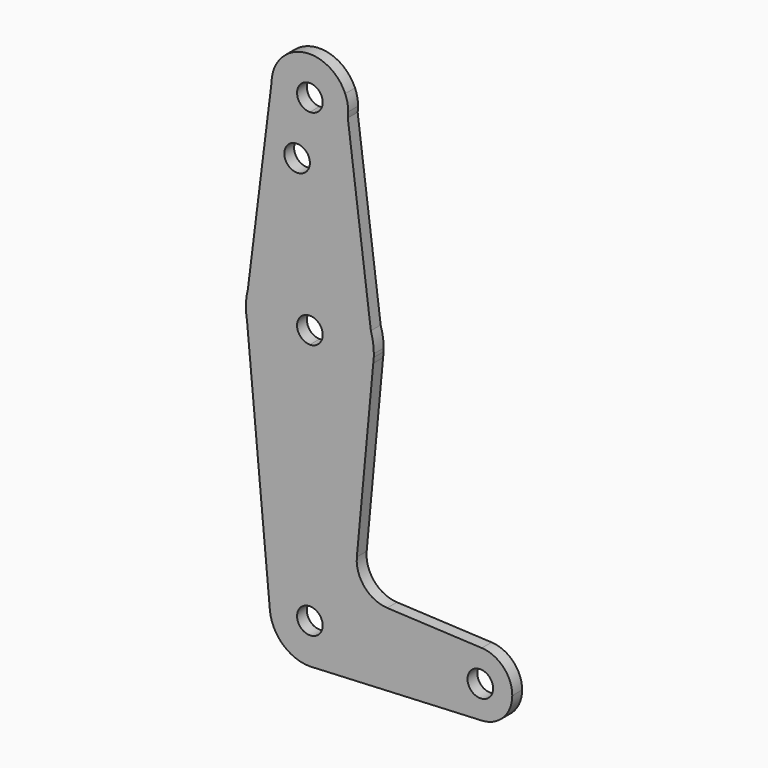
from build123d import *

# Parameters (mm, degrees)
F0_R     = 3.175
F1_DEPTH = 3.048


with BuildPart() as f1:
    # F0 (on Front) → F1 (new body)
    with BuildSketch(Plane.XZ):
        with BuildLine():
            ThreePointArc((-9.5248062727, 114.3607492196), (-6.756636046, 107.5863203575), (0, 104.775))
            ThreePointArc((0, 104.775), (6.2224950143, 107.0884689006), (9.4223026375, 112.9050670241))
            Line((9.4223026375, 112.9050670241), (8.7665542273, 118.0246680361))
            ThreePointArc((8.7665542273, 118.0246680361), (-1.870778398, 123.6394760659), (-9.5248062727, 114.3607492196))
        make_face()
        with BuildLine():
            ThreePointArc((3.175, 114.3), (2.2450640303, 112.0549359697), (0, 111.125))
            ThreePointArc((0, 111.125), (-2.2450640303, 116.5450640303), (3.175, 114.3))
        make_face(mode=Mode.SUBTRACT)
        with BuildLine():
            ThreePointArc((9.4223026375, 112.9050670241), (6.2224950143, 107.0884689006), (0, 104.775))
            Line((0, 104.775), (0, 100.0252))
            Line((0, 100.0252), (0, 79.375))
            ThreePointArc((0, 79.375), (9.3840896531, 76.3044713433), (15.1380544311, 68.2806833238))
            Line((15.1380544311, 68.2806833238), (9.4223026375, 112.9050670241))
        make_face()
        with BuildLine():
            Line((0, 100.0252), (0, 104.775))
            ThreePointArc((0, 104.775), (-6.756636046, 107.5863203575), (-9.5248062727, 114.3607492196))
            Line((-9.5248062727, 114.3607492196), (-15.3876574465, 67.4032836571))
            ThreePointArc((-15.3876574465, 67.4032836571), (-9.7481023011, 76.0295700855), (0, 79.375))
            Line((0, 79.375), (0, 100.0252))
        make_face()
        with Locations((-3.175, 100.0252)):
            Circle(F0_R, mode=Mode.SUBTRACT)
        with BuildLine():
            Line((8.7665542273, 118.0246680361), (9.4223026375, 112.9050670241))
            ThreePointArc((9.4223026375, 112.9050670241), (9.4992909636, 113.6006458774), (9.525, 114.3))
            ThreePointArc((9.525, 114.3), (9.3334627555, 116.200552023), (8.7665542273, 118.0246680361))
        make_face()
        with BuildLine():
            ThreePointArc((15.1380544311, 68.2806833238), (9.3840896531, 76.3044713433), (0, 79.375))
            Line((0, 79.375), (0, 66.675))
            ThreePointArc((0, 66.675), (2.2450640303, 65.7450640303), (3.175, 63.5))
            ThreePointArc((3.175, 63.5), (2.2450640303, 61.2549359697), (0, 60.325))
            Line((0, 60.325), (0, 47.625))
            ThreePointArc((0, 47.625), (10.4426093696, 51.5430967825), (15.7305536467, 61.3633421035))
            Line((15.7305536467, 61.3633421035), (15.8542705753, 62.6889947435))
            Line((15.8542705753, 62.6889947435), (15.1380544311, 68.2806833238))
        make_face()
        with BuildLine():
            Line((0, 66.675), (0, 79.375))
            ThreePointArc((0, 79.375), (-9.7481023011, 76.0295700855), (-15.3876574465, 67.4032836571))
            Line((-15.3876574465, 67.4032836571), (-15.875, 63.5))
            Line((-15.875, 63.5), (-15.6058042604, 60.5889008284))
            ThreePointArc((-15.6058042604, 60.5889008284), (-10.1440111803, 51.2887485418), (0, 47.625))
            Line((0, 47.625), (0, 60.325))
            ThreePointArc((0, 60.325), (-3.175, 63.5), (0, 66.675))
        make_face()
        with BuildLine():
            Line((-15.875, 63.5), (-15.3876574465, 67.4032836571))
            ThreePointArc((-15.3876574465, 67.4032836571), (-15.7526932136, 65.466794732), (-15.875, 63.5))
        make_face()
        with BuildLine():
            ThreePointArc((15.875, 63.5), (15.6896819454, 65.9185750874), (15.1380544311, 68.2806833238))
            Line((15.1380544311, 68.2806833238), (15.8542705753, 62.6889947435))
            ThreePointArc((15.8542705753, 62.6889947435), (15.8698167977, 63.0943649315), (15.875, 63.5))
        make_face()
        with BuildLine():
            Line((-15.6058042604, 60.5889008284), (-15.875, 63.5))
            ThreePointArc((-15.875, 63.5), (-15.8075578068, 62.0382403811), (-15.6058042604, 60.5889008284))
        make_face()
        with BuildLine():
            ThreePointArc((15.7305536467, 61.3633421035), (15.8063157951, 62.024870858), (15.8542705753, 62.6889947435))
            Line((15.8542705753, 62.6889947435), (15.7305536467, 61.3633421035))
        make_face()
        with BuildLine():
            ThreePointArc((0, 47.625), (-10.1440111803, 51.2887485418), (-15.6058042604, 60.5889008284))
            Line((-15.6058042604, 60.5889008284), (-9.9182037869, -0.9171581066))
            ThreePointArc((-9.9182037869, -0.9171581066), (-7.3602756878, 6.7110570814), (0, 9.9605193314))
            Line((0, 9.9605193314), (0, 47.625))
        make_face()
        with BuildLine():
            Line((11.6581237712, 17.7264083363), (15.7305536467, 61.3633421035))
            ThreePointArc((15.7305536467, 61.3633421035), (10.4426093696, 51.5430967825), (0, 47.625))
            Line((0, 47.625), (0, 9.9605193314))
            ThreePointArc((0, 9.9605193314), (7.0431507634, 7.0431507634), (9.9605193314, 0))
            Line((9.9605193314, 0), (34.3583017448, 0))
            ThreePointArc((34.3583017448, 0), (36.818247295, 5.7445890627), (42.6733388469, 7.9285163799))
            Line((42.6733388469, 7.9285163799), (19.1957855599, 9.0464616559))
            ThreePointArc((19.1957855599, 9.0464616559), (13.5711985228, 11.7748971974), (11.6581237712, 17.7264083363))
        make_face()
        with BuildLine():
            ThreePointArc((0, 9.9605193314), (-7.3602756878, 6.7110570814), (-9.9182037869, -0.9171581066))
            ThreePointArc((-9.9182037869, -0.9171581066), (-6.7110570814, -7.3602756878), (0, -9.9605193314))
            Line((0, -9.9605193314), (0.9464464954, -9.9154517992))
            ThreePointArc((0.9464464954, -9.9154517992), (7.37017788, -6.7001808459), (9.9605193314, 0))
            Line((9.9605193314, 0), (3.175, 0))
            ThreePointArc((3.175, 0), (-2.2450640303, -2.2450640303), (0, 3.175))
            Line((0, 3.175), (0, 9.9605193314))
        make_face()
        with BuildLine():
            Line((0.9464464954, -9.9154517992), (0, -9.9605193314))
            ThreePointArc((0, -9.9605193314), (0.4737594461, -9.9492460688), (0.9464464954, -9.9154517992))
        make_face()
        with BuildLine():
            Line((34.3583017448, 0), (9.9605193314, 0))
            ThreePointArc((9.9605193314, 0), (7.37017788, -6.7001808459), (0.9464464954, -9.9154517992))
            Line((0.9464464954, -9.9154517992), (42.6733388469, -7.9285163799))
            ThreePointArc((42.6733388469, -7.9285163799), (36.818247295, -5.7445890627), (34.3583017448, 0))
        make_face()
        with BuildLine():
            ThreePointArc((50.2333017448, 0), (48.0403908075, 5.4775544499), (42.6733388469, 7.9285163799))
            ThreePointArc((42.6733388469, 7.9285163799), (36.818247295, 5.7445890627), (34.3583017448, 0))
            ThreePointArc((34.3583017448, 0), (36.818247295, -5.7445890627), (42.6733388469, -7.9285163799))
            ThreePointArc((42.6733388469, -7.9285163799), (48.0403908075, -5.4775544499), (50.2333017448, 0))
        make_face()
        with BuildLine():
            ThreePointArc((45.4708017448, 0), (42.2958017448, -3.175), (39.1208017448, 0))
            ThreePointArc((39.1208017448, 0), (42.2958017448, 3.175), (45.4708017448, 0))
        make_face(mode=Mode.SUBTRACT)
        with BuildLine():
            ThreePointArc((9.9605193314, 0), (7.0431507634, 7.0431507634), (0, 9.9605193314))
            Line((0, 9.9605193314), (0, 3.175))
            ThreePointArc((0, 3.175), (2.2450640303, 2.2450640303), (3.175, 0))
            Line((3.175, 0), (9.9605193314, 0))
        make_face()
    extrude(amount=F1_DEPTH)


solid = f1.part
